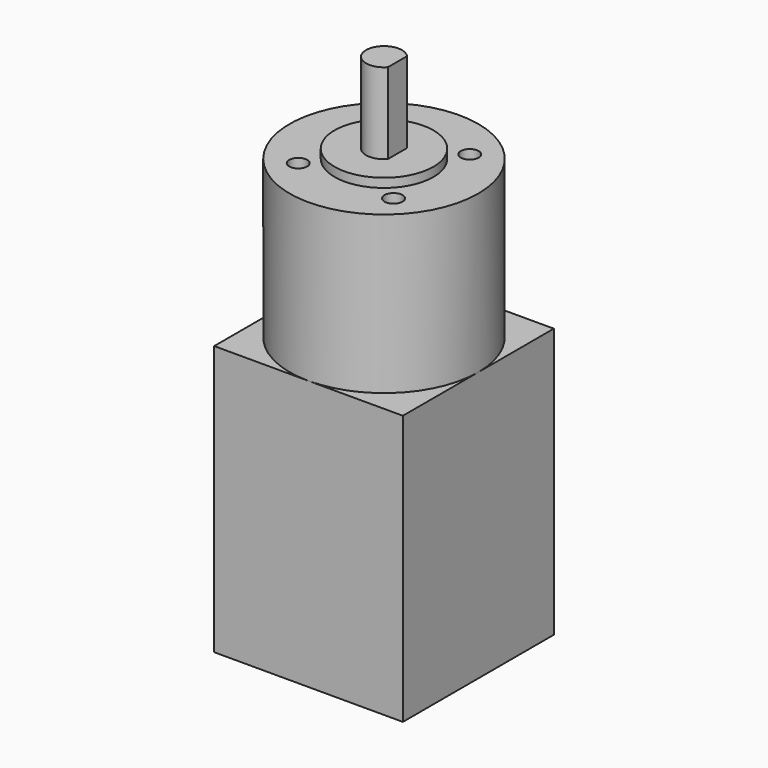
from build123d import *

# Parameters (mm, degrees)
SKETCH_W     = 42
SKETCH_H     = 42
PAD_DEPTH    = 60
SKETCH001_R  = 21
PAD001_DEPTH = 35
SKETCH002_R  = 11
PAD002_DEPTH = 2
PAD003_DEPTH = 18
SKETCH004_R  = 2
POCKET_DEPTH = 6


with BuildPart() as part:
    # Sketch → Pad (new body)
    with BuildSketch(Plane.XY):
        with Locations((21, 21)):
            Rectangle(SKETCH_W, SKETCH_H)
    extrude(amount=PAD_DEPTH)

    # Sketch001 (on Face6 of Pad) → Pad001 (join)
    with BuildSketch(Plane.XY.offset(60)):
        with Locations((21, 21)):
            Circle(SKETCH001_R)
    extrude(amount=PAD001_DEPTH)

    # Sketch002 (on Face11 of Pad001) → Pad002 (join)
    with BuildSketch(Plane.XY.offset(95)):
        with Locations((21, 21)):
            Circle(SKETCH002_R)
    extrude(amount=PAD002_DEPTH)

    # Sketch003 (on Face13 of Pad002) → Pad003 (join)
    with BuildSketch(Plane.XY.offset(97)):
        with BuildLine():
            ThreePointArc((24, 23.645751), (17, 21), (24, 18.354249))
            Line((24, 23.645751), (24, 18.354249))
        make_face()
    extrude(amount=PAD003_DEPTH)

    # Sketch004 (on Face11 of Pad003) → Pocket (cut)
    with BuildSketch(Plane.XY.offset(95)):
        with Locations((10.393398, 10.393398)):
            Circle(SKETCH004_R)
        with Locations((31.606602, 10.393398)):
            Circle(SKETCH004_R)
        with Locations((31.606602, 31.606602)):
            Circle(SKETCH004_R)
        with Locations((10.393398, 31.606602)):
            Circle(SKETCH004_R)
    extrude(amount=-POCKET_DEPTH, mode=Mode.SUBTRACT)


solid = part.part
